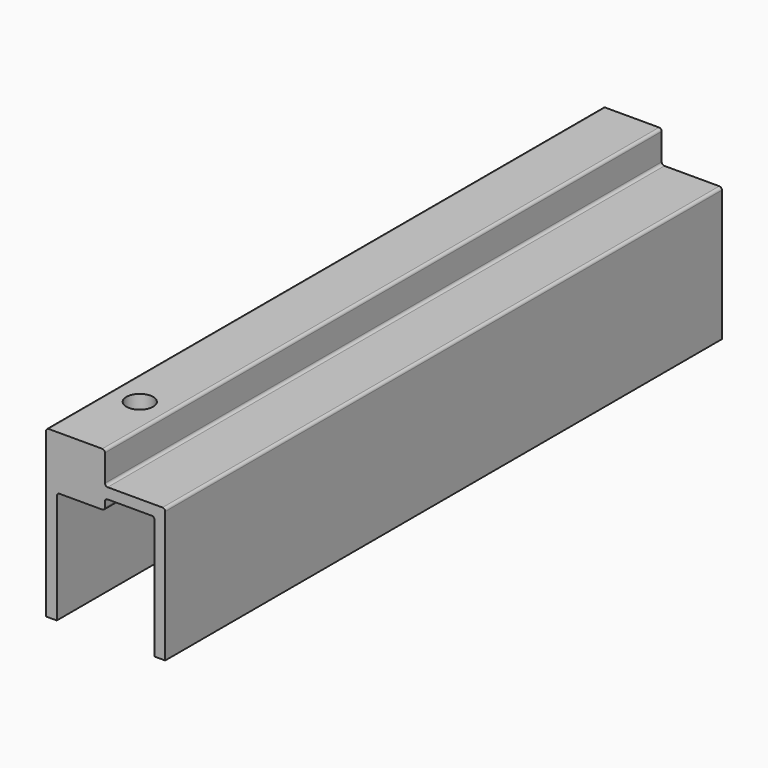
from build123d import *

# Parameters (mm, degrees)
F1_DEPTH = 130
F3_D     = 5


with BuildPart() as f1:
    # F0 (on Front) → F1 (new body)
    with BuildSketch(Plane.XZ):
        with BuildLine():
            Line((-2, 0), (0, 0))
            Line((0, 0), (0, 24.5))
            ThreePointArc((0, 24.5), (-0.146447, 24.853553), (-0.5, 25))
            Line((-0.5, 25), (-10.75, 25))
            ThreePointArc((-10.75, 25), (-11.103553, 25.146447), (-11.25, 25.5))
            Line((-11.25, 25.5), (-11.25, 30.5))
            ThreePointArc((-11.25, 30.5), (-11.396447, 30.853553), (-11.75, 31))
            Line((-11.75, 31), (-21.75, 31))
            ThreePointArc((-21.75, 31), (-22.103553, 30.853553), (-22.25, 30.5))
            Line((-22.25, 30.5), (-22.25, 22.5))
            Line((-22.25, 22.5), (-22.25, -0.004025))
            Line((-22.25, -0.004025), (-20.25, -0.004025))
            Line((-20.25, -0.004025), (-20.25, 20.5))
            ThreePointArc((-20.25, 20.5), (-20.103553, 20.853553), (-19.75, 21))
            Line((-19.75, 21), (-11.75, 21))
            ThreePointArc((-11.75, 21), (-11.396447, 21.146447), (-11.25, 21.5))
            Line((-11.25, 21.5), (-11.25, 22.5))
            ThreePointArc((-11.25, 22.5), (-11.103553, 22.853553), (-10.75, 23))
            Line((-10.75, 23), (-2.5, 23))
            ThreePointArc((-2.5, 23), (-2.146447, 22.853553), (-2, 22.5))
            Line((-2, 22.5), (-2, 0))
        make_face()
    extrude(amount=F1_DEPTH)

    # F3 (through all)
    with Locations(Plane.XY.offset(31)):
        with Locations((-16.75, -115)):
            Hole(F3_D / 2)


solid = f1.part
